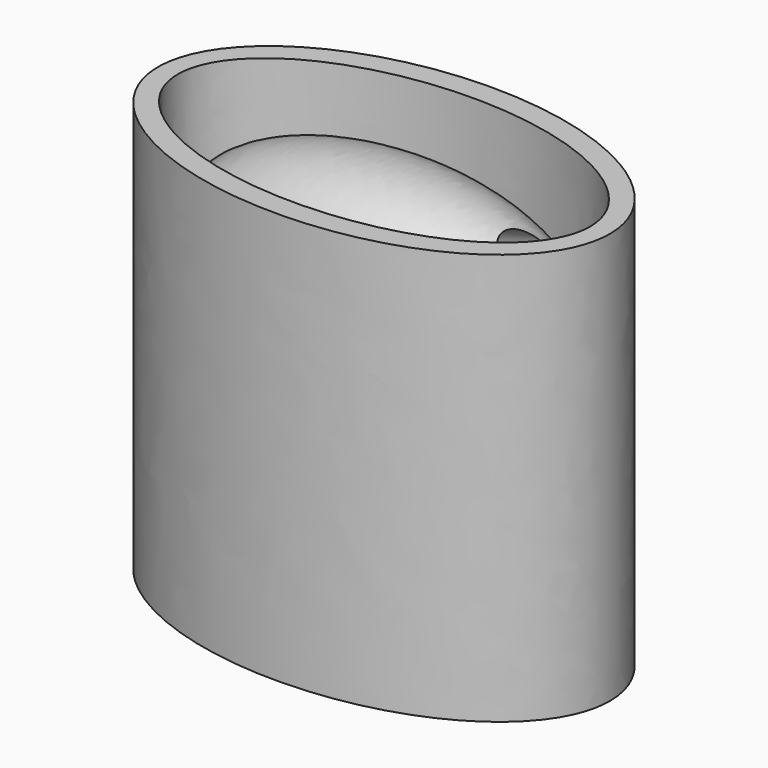
from build123d import *

# Parameters (mm, degrees)
F1_DEPTH  = 152.4
F3_DEPTH  = 203.2
F5_ANGLE  = 180
F9_R      = 12.7
F10_DEPTH = 61.7280825368
F11_R     = 5.08


with BuildPart() as f1:
    # F0 (on Top) → F1 (new body)
    with BuildSketch(Plane.XY):
        with BuildLine():
            add(Edge.make_bspline(
                [(-93.5273809366, 0), (-93.5273809366, -78.2428541963), (46.7636904683, -39.1214270982), (187.0547618732, 0), (46.7636904683, 39.1214270982), (-93.5273809366, 78.2428541963), (-93.5273809366, 0)],
                knots=[0, 0, 0, 2.0943951024, 2.0943951024, 4.1887902048, 4.1887902048, 6.2831853072, 6.2831853072, 6.2831853072], degree=2, weights=[1, 0.5, 1, 0.5, 1, 0.5, 1]))
        make_face()
    extrude(amount=F1_DEPTH)

    # F4 (on face) → F5 (revolve)
    with BuildSketch(Plane.XY.offset(152.4)):
        with BuildLine():
            add(Edge.make_bspline(
                [(93.5273809366, 0), (93.5273809366, 26.0809513988), (46.7636904683, 39.1214270982), (-93.5273809366, 78.2428541963), (-93.5273809366, 0)],
                knots=[3.1415926536, 3.1415926536, 3.1415926536, 4.1887902048, 4.1887902048, 6.2831853072, 6.2831853072, 6.2831853072], degree=2, weights=[0.75, 0.75, 1, 0.5, 1]))
            Line((-93.5273809366, 0), (93.5273809366, 0))
        make_face()
    revolve(axis=Axis((0, 0, 152.4), (1, 0, 0)), revolution_arc=F5_ANGLE)

    # F9 (on face) → F10 (cut, up to face)
    with BuildSketch(Plane(origin=(64.9735226281, 0, 17.4096029176), x_dir=(0, -1, 0), z_dir=(-0.9659258263, 0, -0.2588190451))):
        with Locations((0, 152.9003501747)):
            Circle(F9_R)
    extrude(amount=-F10_DEPTH, mode=Mode.SUBTRACT)

    # F11
    f11_edges = [f1.edges().sort_by_distance(p)[0] for p in [
        (25.4, 12.7, 165.1),
    ]]
    fillet(f11_edges, radius=F11_R)


with BuildPart() as f3:
    # F2 (on Top) → F3 (new body)
    with BuildSketch(Plane.XY):
        with BuildLine():
            add(Edge.make_bspline(
                [(111.6524487734, 0), (111.6524487734, 116.2541631171), (-55.8262243867, 58.1270815586), (-223.3048975468, 0), (-55.8262243867, -58.1270815586), (111.6524487734, -116.2541631171), (111.6524487734, 0)],
                knots=[0, 0, 0, 2.0943951024, 2.0943951024, 4.1887902048, 4.1887902048, 6.2831853072, 6.2831853072, 6.2831853072], degree=2, weights=[1, 0.5, 1, 0.5, 1, 0.5, 1]))
        make_face()
        with BuildLine():
            add(Edge.make_bspline(
                [(101.8723770976, 0), (101.8723770976, 96.4274269297), (-50.9361885488, 48.2137134648), (-203.7447541952, 0), (-50.9361885488, -48.2137134648), (101.8723770976, -96.4274269297), (101.8723770976, 0)],
                knots=[0, 0, 0, 2.0943951024, 2.0943951024, 4.1887902048, 4.1887902048, 6.2831853072, 6.2831853072, 6.2831853072], degree=2, weights=[1, 0.5, 1, 0.5, 1, 0.5, 1]))
        make_face(mode=Mode.SUBTRACT)
    extrude(amount=F3_DEPTH)


solid = Compound([f1.part, f3.part])
